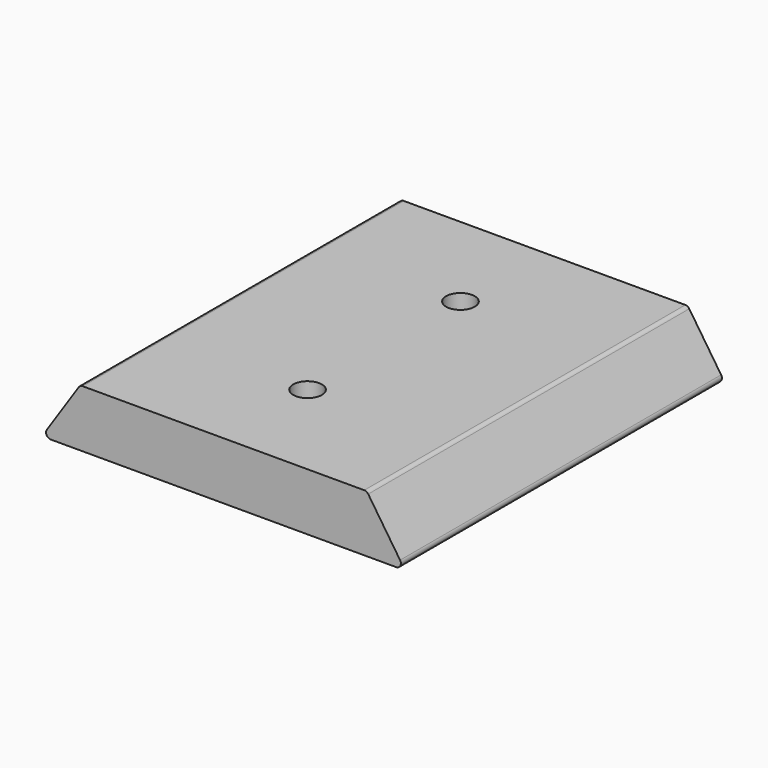
from build123d import *

# Parameters (mm, degrees)
F0_W     = 38
F0_H     = 42
F1_DEPTH = 6
F3_DEPTH = 42
F4_R     = 0.5
F5_R     = 3
F6_DEPTH = 3.5
F7_R     = 1.5
F8_R     = 1.5
F9_DEPTH = 5


with BuildPart() as f1:
    # F0 (on Top) → F1 (new body)
    with BuildSketch(Plane.XY):
        Rectangle(F0_W, F0_H)
    extrude(amount=F1_DEPTH)

    # F2 (on face) → F3 (cut)
    with BuildSketch(Plane.XZ.offset(21)):
        Polygon((15, 6), (19, 0), (19, 6), align=None)
        Polygon((-15, 6), (-19, 6), (-19, 0), align=None)
    extrude(amount=-F3_DEPTH, mode=Mode.SUBTRACT)

    # F4
    f4_edges = [f1.edges().sort_by_distance(p)[0] for p in [
        (-19, 0, 0),
        (19, 0, 0),
        (-15, 0, 6),
        (15, 0, 6),
    ]]
    fillet(f4_edges, radius=F4_R)

    # F5 (on face) → F6 (cut)
    with BuildSketch(Plane(origin=(0, 0, 0), x_dir=(1, 0, 0), z_dir=(0, 0, -1))):
        with Locations((0, 10)):
            Circle(F5_R)
        with Locations((0, -10)):
            Circle(F5_R)
    extrude(amount=-F6_DEPTH, mode=Mode.SUBTRACT)

    # F7 (on face) + F8 (on face) → F9 (cut)
    with BuildSketch(Plane(origin=(0, 0, 3.5), x_dir=(1, 0, 0), z_dir=(0, 0, -1))):
        with Locations((0, 10)):
            Circle(F7_R)
    with BuildSketch(Plane(origin=(0, 0, 3.5), x_dir=(1, 0, 0), z_dir=(0, 0, -1))):
        with Locations((0, -10)):
            Circle(F8_R)
    extrude(amount=-F9_DEPTH, mode=Mode.SUBTRACT)


solid = f1.part
